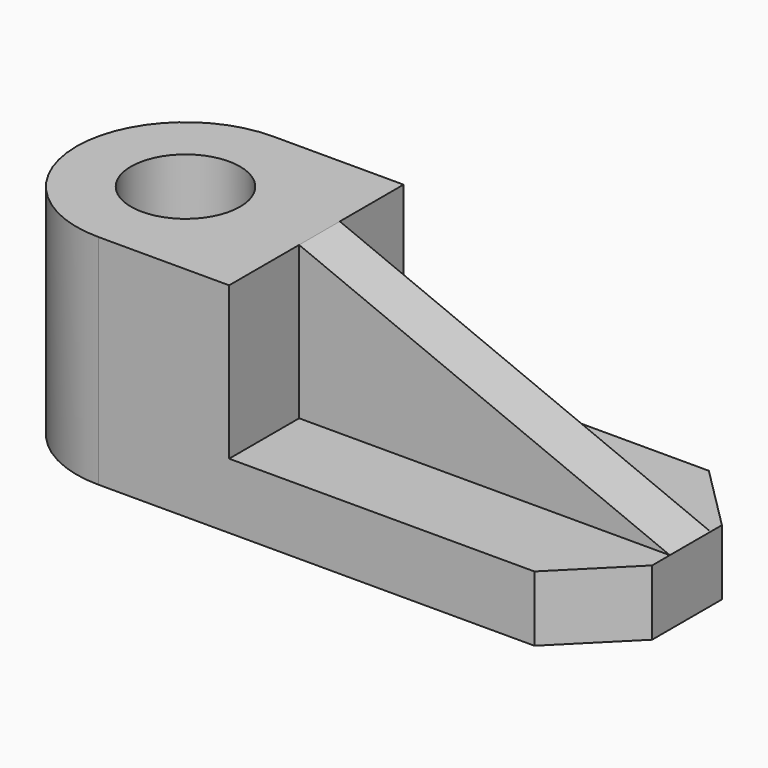
from build123d import *

# Parameters (mm, degrees)
F1_DEPTH = 9
F3_DEPTH = 21
F4_R     = 7.5
F5_DEPTH = 70.3
F6_W     = 51
F6_H     = 7
F7_DEPTH = 21
F9_DEPTH = 25


with BuildPart() as f1:
    # F0 (on Top) → F1 (new body)
    with BuildSketch(Plane.XY):
        with BuildLine():
            Line((44.763165, 30), (-15.236835, 30))
            ThreePointArc((-15.236835, 30), (-30.236835, 15), (-15.236835, 0))
            Line((-15.236835, 0), (44.763165, 0))
            Line((44.763165, 0), (53.763165, 9))
            Line((53.763165, 9), (53.763165, 21))
            Line((53.763165, 21), (44.763165, 30))
        make_face()
    extrude(amount=F1_DEPTH)

    # F2 (on face) → F3 (join)
    with BuildSketch(Plane.XY.offset(9)):
        with BuildLine():
            Line((-15.236835, 0), (2.763165, 0))
            Line((2.763165, 0), (2.763165, 30))
            Line((2.763165, 30), (-15.236835, 30))
            ThreePointArc((-15.236835, 30), (-30.236835, 15), (-15.236835, 0))
        make_face()
    extrude(amount=F3_DEPTH)

    # F4 (on face) → F5 (cut)
    with BuildSketch(Plane.XY.offset(30)):
        with Locations((-15.236835, 15)):
            Circle(F4_R)
    extrude(amount=-F5_DEPTH, mode=Mode.SUBTRACT)

    # F6 (on face) → F7 (join)
    with BuildSketch(Plane.XY.offset(9)):
        with Locations((28.263165, 15.539119)):
            Rectangle(F6_W, F6_H)
    extrude(amount=F7_DEPTH)

    # F8 (on face) → F9 (cut)
    with BuildSketch(Plane.XZ.offset(-12.039119)):
        Polygon((53.763165, 30), (2.763165, 30), (53.763165, 9), align=None)
    extrude(amount=-F9_DEPTH, mode=Mode.SUBTRACT)


solid = f1.part
